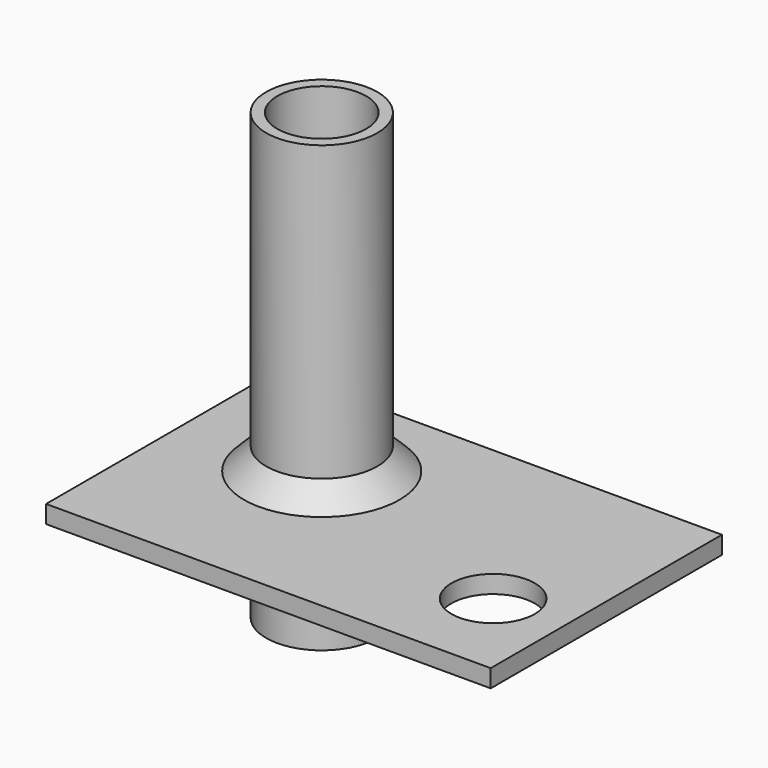
from build123d import *

# Parameters (mm, degrees)
F0_R     = 12.5
F1_DEPTH = 100
F2_T     = -2.5
F4_W     = 100
F4_H     = 65
F4_R     = 9.376015
F4_R_2   = 12.5
F5_DEPTH = 4
F6_SIZE  = 5


with BuildPart() as f1:
    # F0 (on Top) → F1 (new body)
    with BuildSketch(Plane.XY):
        Circle(F0_R)
    extrude(amount=F1_DEPTH)

    # F2
    f2_openings = [f1.faces().sort_by_distance(p)[0] for p in [
        (0, 0, 100),
    ]]
    offset(amount=F2_T, openings=f2_openings)

    # F4 (on offset) → F5 (join)
    with BuildSketch(Plane.XY.offset(25)):
        with Locations((20, -7.5)):
            Rectangle(F4_W, F4_H)
        with Locations((53.792767, -19.060429)):
            Circle(F4_R, mode=Mode.SUBTRACT)
        Circle(F4_R_2, mode=Mode.SUBTRACT)
    extrude(amount=F5_DEPTH)

    # F6
    f6_edges = [f1.edges().sort_by_distance(p)[0] for p in [
        (-12.5, 0, 29),
        (-12.5, 0, 25),
    ]]
    chamfer(f6_edges, length=F6_SIZE)


solid = f1.part
